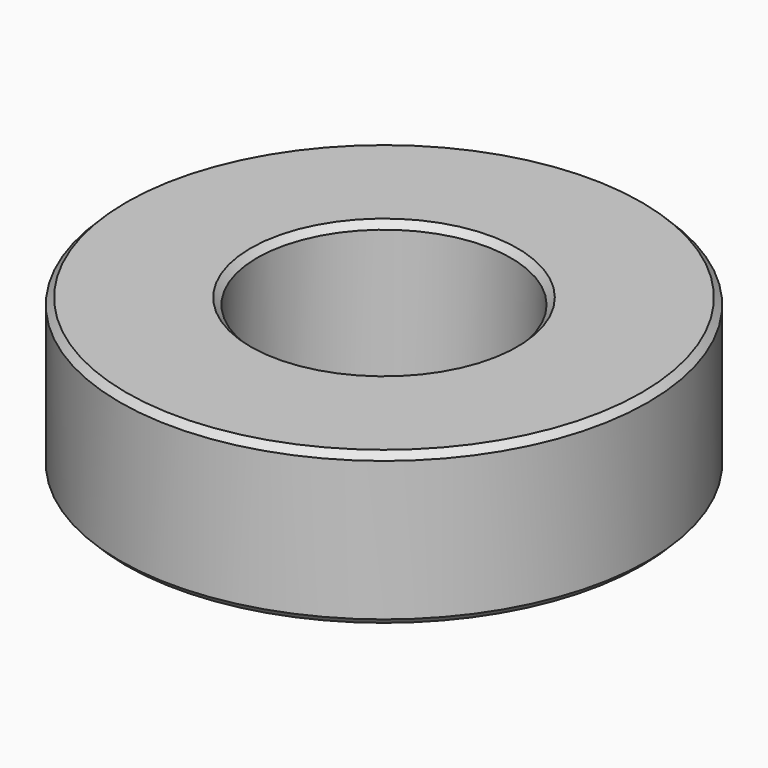
from build123d import *

# Parameters (mm, degrees)
F0_W    = 13.5
F0_H    = 15
F2_SIZE = 0.635


with BuildPart() as f1:
    # F0 (on Front) → F1 (revolve)
    with BuildSketch(Plane.XZ):
        with Locations((-19.25, 0)):
            Rectangle(F0_W, F0_H)
    revolve(axis=Axis((0, 0, 3.400517), (0, 0, -1)))

    # F2
    f2_edges = [f1.edges().sort_by_distance(p)[0] for p in [
        (26, 0, 7.5),
        (26, 0, -7.5),
        (12.5, 0, 7.5),
        (12.5, 0, -7.5),
    ]]
    chamfer(f2_edges, length=F2_SIZE)


solid = f1.part
